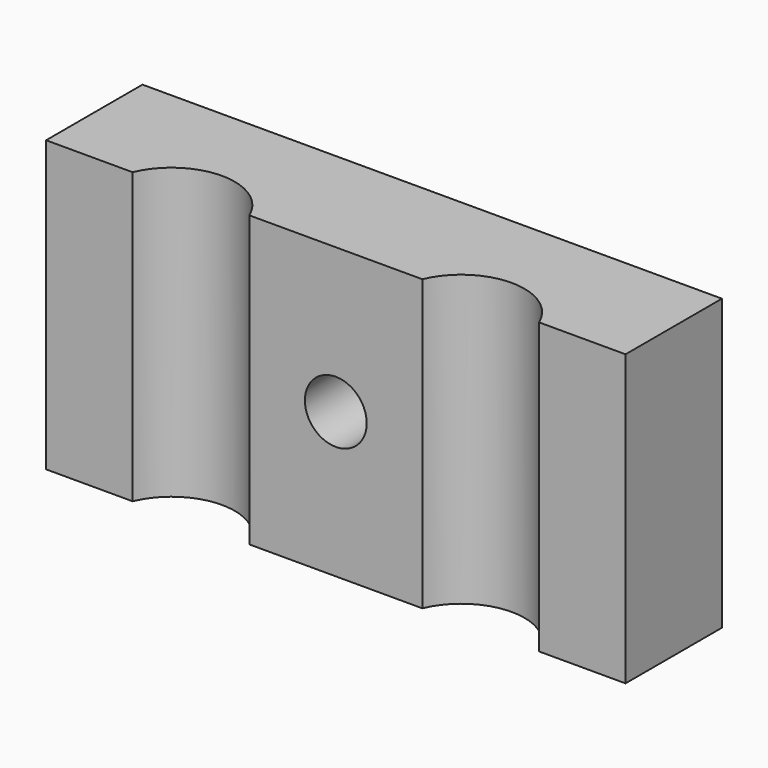
from build123d import *

# Parameters (mm, degrees)
F1_DEPTH = 15
F2_R     = 1.6
F3_DEPTH = 7


with BuildPart() as f1:
    # F0 (on Top) → F1 (new body)
    with BuildSketch(Plane.XY):
        with BuildLine():
            Line((-21.92891, 20.478352), (-51.92891, 20.478352))
            Line((-51.92891, 20.478352), (-51.92891, 14.23985))
            Line((-51.92891, 14.23985), (-47.449946, 14.23985))
            ThreePointArc((-47.449946, 14.23985), (-44.42891, 16.252193), (-41.407874, 14.23985))
            Line((-41.407874, 14.23985), (-32.449946, 14.23985))
            ThreePointArc((-32.449946, 14.23985), (-29.42891, 16.252193), (-26.407874, 14.23985))
            Line((-26.407874, 14.23985), (-21.92891, 14.23985))
            Line((-21.92891, 14.23985), (-21.92891, 20.478352))
        make_face()
    extrude(amount=F1_DEPTH)

    # F2 (on face) → F3 (cut)
    with BuildSketch(Plane(origin=(0, 20.478352, 0), x_dir=(-1, 0, 0), z_dir=(0, 1, 0))):
        with Locations((36.92891, 7.5)):
            Circle(F2_R)
    extrude(amount=-F3_DEPTH, mode=Mode.SUBTRACT)


solid = f1.part
